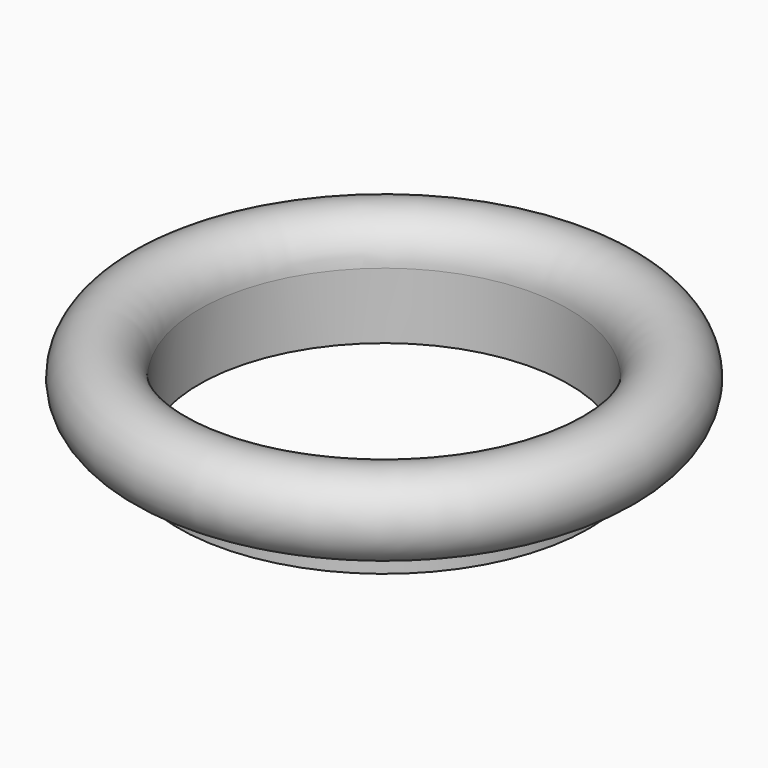
from build123d import *


with BuildPart() as f1:
    # F0 (on Front) → F1 (revolve)
    with BuildSketch(Plane.XZ):
        with BuildLine():
            ThreePointArc((46.0375, 15.875), (61.454804, 18.531396), (47.8155, 10.868558))
            Line((47.8155, 10.868558), (47.8155, 0))
            Line((47.8155, 0), (49.4157, 0))
            Line((49.4157, 0), (49.4157, 7.512081))
            ThreePointArc((49.4157, 7.512081), (62.165023, 20.738039), (44.45, 15.875))
            Line((44.45, 15.875), (44.45, 0))
            Line((44.45, 0), (46.0375, 0))
            Line((46.0375, 0), (46.0375, 15.875))
        make_face()
    revolve(axis=Axis((0, 0, 19.293888), (0, 0, 1)))


solid = f1.part
